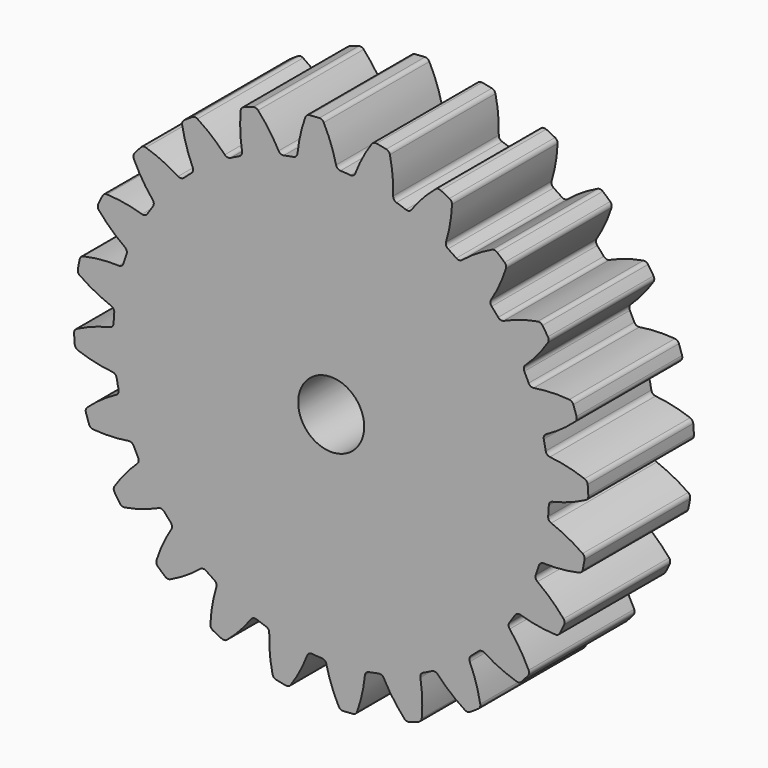
from build123d import *

# Parameters (mm, degrees)
F1_DEPTH = 4
F2_R     = 1
F3_DEPTH = 25


with BuildPart() as f1:
    # F0 (on Front) → F1 (new body)
    with BuildSketch(Plane.XZ):
        with BuildLine():
            ThreePointArc((0.147286, 6.705114), (-0.007827, 7.22133), (-0.226017, 7.714212))
            ThreePointArc((-0.226017, 7.714212), (-0.281912, 7.772593), (-0.360454, 7.791667))
            ThreePointArc((-0.360454, 7.791667), (-0.510144, 7.7833), (-0.659647, 7.772057))
            ThreePointArc((-0.659647, 7.772057), (-0.735027, 7.742895), (-0.782823, 7.677717))
            ThreePointArc((-0.782823, 7.677717), (-0.934813, 7.160572), (-1.021219, 6.628526))
            ThreePointArc((-1.021219, 6.628526), (-1.058952, 6.544762), (-1.139655, 6.50086))
            ThreePointArc((-1.139655, 6.50086), (-1.287596, 6.473183), (-1.434868, 6.442139))
            ThreePointArc((-1.434868, 6.442139), (-2.1215, 6.249739), (-2.783369, 5.984385))
            ThreePointArc((-2.783369, 5.984385), (-2.919105, 5.91936), (-3.053324, 5.851257))
            ThreePointArc((-3.053324, 5.851257), (-3.666764, 5.487699), (-4.2374, 5.060083))
            ThreePointArc((-4.2374, 5.060083), (-4.351682, 4.962143), (-4.463701, 4.861622))
            ThreePointArc((-4.463701, 4.861622), (-4.962143, 4.351682), (-5.40266, 3.790945))
            ThreePointArc((-5.40266, 3.790945), (-5.487699, 3.666764), (-5.569885, 3.540676))
            ThreePointArc((-5.569885, 3.540676), (-5.91936, 2.919105), (-6.199738, 2.26346))
            ThreePointArc((-6.199738, 2.26346), (-6.249739, 2.1215), (-6.29649, 1.978438))
            ThreePointArc((-6.29649, 1.978438), (-6.473183, 1.287596), (-6.574313, 0.581724))
            ThreePointArc((-6.574313, 0.581724), (-6.585869, 0.431661), (-6.594, 0.281373))
            ThreePointArc((-6.594, 0.281373), (-6.585869, -0.431661), (-6.50086, -1.139655))
            ThreePointArc((-6.50086, -1.139655), (-6.473183, -1.287596), (-6.442139, -1.434868))
            ThreePointArc((-6.442139, -1.434868), (-6.249739, -2.1215), (-5.984385, -2.783369))
            ThreePointArc((-5.984385, -2.783369), (-5.91936, -2.919105), (-5.851257, -3.053324))
            ThreePointArc((-5.851257, -3.053324), (-5.487699, -3.666764), (-5.060083, -4.2374))
            ThreePointArc((-5.060083, -4.2374), (-4.962143, -4.351682), (-4.861622, -4.463701))
            ThreePointArc((-4.861622, -4.463701), (-4.351682, -4.962143), (-3.790945, -5.40266))
            ThreePointArc((-3.790945, -5.40266), (-3.666764, -5.487699), (-3.540676, -5.569885))
            ThreePointArc((-3.540676, -5.569885), (-2.919105, -5.91936), (-2.26346, -6.199738))
            ThreePointArc((-2.26346, -6.199738), (-2.1215, -6.249739), (-1.978438, -6.29649))
            ThreePointArc((-1.978438, -6.29649), (-1.287596, -6.473183), (-0.581724, -6.574313))
            ThreePointArc((-0.581724, -6.574313), (-0.431661, -6.585869), (-0.281373, -6.594))
            ThreePointArc((-0.281373, -6.594), (0.431661, -6.585869), (1.139655, -6.50086))
            ThreePointArc((1.139655, -6.50086), (1.287596, -6.473183), (1.434868, -6.442139))
            ThreePointArc((1.434868, -6.442139), (2.1215, -6.249739), (2.783369, -5.984385))
            ThreePointArc((2.783369, -5.984385), (2.919105, -5.91936), (3.053324, -5.851257))
            ThreePointArc((3.053324, -5.851257), (3.666764, -5.487699), (4.2374, -5.060083))
            ThreePointArc((4.2374, -5.060083), (4.351682, -4.962143), (4.463701, -4.861622))
            ThreePointArc((4.463701, -4.861622), (4.962143, -4.351682), (5.40266, -3.790945))
            ThreePointArc((5.40266, -3.790945), (5.487699, -3.666764), (5.569885, -3.540676))
            ThreePointArc((5.569885, -3.540676), (5.91936, -2.919105), (6.199738, -2.26346))
            ThreePointArc((6.199738, -2.26346), (6.249739, -2.1215), (6.29649, -1.978438))
            ThreePointArc((6.29649, -1.978438), (6.473183, -1.287596), (6.574313, -0.581724))
            ThreePointArc((6.574313, -0.581724), (6.585869, -0.431661), (6.594, -0.281373))
            ThreePointArc((6.594, -0.281373), (6.585869, 0.431661), (6.50086, 1.139655))
            ThreePointArc((6.50086, 1.139655), (6.473183, 1.287596), (6.442139, 1.434868))
            ThreePointArc((6.442139, 1.434868), (6.249739, 2.1215), (5.984385, 2.783369))
            ThreePointArc((5.984385, 2.783369), (5.91936, 2.919105), (5.851257, 3.053324))
            ThreePointArc((5.851257, 3.053324), (5.487699, 3.666764), (5.060083, 4.2374))
            ThreePointArc((5.060083, 4.2374), (4.962143, 4.351682), (4.861622, 4.463701))
            ThreePointArc((4.861622, 4.463701), (4.351682, 4.962143), (3.790945, 5.40266))
            ThreePointArc((3.790945, 5.40266), (3.666764, 5.487699), (3.540676, 5.569885))
            ThreePointArc((3.540676, 5.569885), (2.919105, 5.91936), (2.26346, 6.199738))
            ThreePointArc((2.26346, 6.199738), (2.1215, 6.249739), (1.978438, 6.29649))
            ThreePointArc((1.978438, 6.29649), (1.287596, 6.473183), (0.581724, 6.574313))
            ThreePointArc((0.581724, 6.574313), (0.431661, 6.585869), (0.281373, 6.594))
            ThreePointArc((0.281373, 6.594), (0.19563, 6.626991), (0.147286, 6.705114))
        make_face()
        with BuildLine():
            ThreePointArc((0.729167, 6.666975), (0.67104, 6.595831), (0.581724, 6.574313))
            ThreePointArc((0.581724, 6.574313), (1.287596, 6.473183), (1.978438, 6.29649))
            ThreePointArc((1.978438, 6.29649), (1.904156, 6.350549), (1.877679, 6.438522))
            ThreePointArc((1.877679, 6.438522), (1.861457, 6.977295), (1.778269, 7.509854))
            ThreePointArc((1.778269, 7.509854), (1.739389, 7.580713), (1.66846, 7.619465))
            ThreePointArc((1.66846, 7.619465), (1.521705, 7.650125), (1.374387, 7.677959))
            ThreePointArc((1.374387, 7.677959), (1.294027, 7.669301), (1.23099, 7.618715))
            ThreePointArc((1.23099, 7.618715), (0.950333, 7.158529), (0.729167, 6.666975))
        make_face()
        with BuildLine():
            ThreePointArc((2.429861, 6.251082), (2.355301, 6.197406), (2.26346, 6.199738))
            ThreePointArc((2.26346, 6.199738), (2.919105, 5.91936), (3.540676, 5.569885))
            ThreePointArc((3.540676, 5.569885), (3.482916, 5.641328), (3.480111, 5.733156))
            ThreePointArc((3.480111, 5.733156), (3.603887, 6.257769), (3.661369, 6.793712))
            ThreePointArc((3.661369, 6.793712), (3.642154, 6.872219), (3.583671, 6.928008))
            ThreePointArc((3.583671, 6.928008), (3.449852, 6.995607), (3.314758, 7.060622))
            ThreePointArc((3.314758, 7.060622), (3.234895, 7.073057), (3.160914, 7.04051))
            ThreePointArc((3.160914, 7.04051), (2.770715, 6.668644), (2.429861, 6.251082))
        make_face()
        with BuildLine():
            ThreePointArc((-2.783369, 5.984385), (-2.1215, 6.249739), (-1.434868, 6.442139))
            ThreePointArc((-1.434868, 6.442139), (-1.526227, 6.451815), (-1.593143, 6.514763))
            ThreePointArc((-1.593143, 6.514763), (-1.876578, 6.973244), (-2.214901, 7.392859))
            ThreePointArc((-2.214901, 7.392859), (-2.284001, 7.434785), (-2.364803, 7.43288))
            ThreePointArc((-2.364803, 7.43288), (-2.507228, 7.386055), (-2.648726, 7.336501))
            ThreePointArc((-2.648726, 7.336501), (-2.71399, 7.288823), (-2.743288, 7.213496))
            ThreePointArc((-2.743288, 7.213496), (-2.756252, 6.674634), (-2.702011, 6.138353))
            ThreePointArc((-2.702011, 6.138353), (-2.716778, 6.047677), (-2.783369, 5.984385))
        make_face()
        with BuildLine():
            ThreePointArc((3.964965, 5.409187), (3.879053, 5.376638), (3.790945, 5.40266))
            ThreePointArc((3.790945, 5.40266), (4.351682, 4.962143), (4.861622, 4.463701))
            ThreePointArc((4.861622, 4.463701), (4.824322, 4.547659), (4.845379, 4.637084))
            ThreePointArc((4.845379, 4.637084), (5.100717, 5.111786), (5.294953, 5.61459))
            ThreePointArc((5.294953, 5.61459), (5.296712, 5.695395), (5.254661, 5.76442))
            ThreePointArc((5.254661, 5.76442), (5.142897, 5.86435), (5.029233, 5.962115))
            ThreePointArc((5.029233, 5.962115), (4.955311, 5.994796), (4.875426, 5.982505))
            ThreePointArc((4.875426, 5.982505), (4.402277, 5.724302), (3.964965, 5.409187))
        make_face()
        with BuildLine():
            ThreePointArc((-4.2374, 5.060083), (-3.666764, 5.487699), (-3.053324, 5.851257))
            ThreePointArc((-3.053324, 5.851257), (-3.144075, 5.836958), (-3.225003, 5.880442))
            ThreePointArc((-3.225003, 5.880442), (-3.617444, 6.249942), (-4.052843, 6.567695))
            ThreePointArc((-4.052843, 6.567695), (-4.13044, 6.590307), (-4.207996, 6.567555))
            ThreePointArc((-4.207996, 6.567555), (-4.333448, 6.485463), (-4.457299, 6.400975))
            ThreePointArc((-4.457299, 6.400975), (-4.507999, 6.33803), (-4.516803, 6.257687))
            ThreePointArc((-4.516803, 6.257687), (-4.389858, 5.733831), (-4.198665, 5.229862))
            ThreePointArc((-4.198665, 5.229862), (-4.18946, 5.138454), (-4.2374, 5.060083))
        make_face()
        with BuildLine():
            ThreePointArc((5.229862, 4.198665), (5.138454, 4.18946), (5.060083, 4.2374))
            ThreePointArc((5.060083, 4.2374), (5.487699, 3.666764), (5.851257, 3.053324))
            ThreePointArc((5.851257, 3.053324), (5.836958, 3.144075), (5.880442, 3.225003))
            ThreePointArc((5.880442, 3.225003), (6.249942, 3.617444), (6.567695, 4.052843))
            ThreePointArc((6.567695, 4.052843), (6.590307, 4.13044), (6.567555, 4.207996))
            ThreePointArc((6.567555, 4.207996), (6.485463, 4.333448), (6.400975, 4.457299))
            ThreePointArc((6.400975, 4.457299), (6.33803, 4.507999), (6.257687, 4.516803))
            ThreePointArc((6.257687, 4.516803), (5.733831, 4.389858), (5.229862, 4.198665))
        make_face()
        with BuildLine():
            ThreePointArc((-5.40266, 3.790945), (-4.962143, 4.351682), (-4.463701, 4.861622))
            ThreePointArc((-4.463701, 4.861622), (-4.547659, 4.824322), (-4.637084, 4.845379))
            ThreePointArc((-4.637084, 4.845379), (-5.111786, 5.100717), (-5.61459, 5.294953))
            ThreePointArc((-5.61459, 5.294953), (-5.695395, 5.296712), (-5.76442, 5.254661))
            ThreePointArc((-5.76442, 5.254661), (-5.86435, 5.142897), (-5.962115, 5.029233))
            ThreePointArc((-5.962115, 5.029233), (-5.994796, 4.955311), (-5.982505, 4.875426))
            ThreePointArc((-5.982505, 4.875426), (-5.724302, 4.402277), (-5.409187, 3.964965))
            ThreePointArc((-5.409187, 3.964965), (-5.376638, 3.879053), (-5.40266, 3.790945))
        make_face()
        with BuildLine():
            ThreePointArc((6.138353, 2.702011), (6.047677, 2.716778), (5.984385, 2.783369))
            ThreePointArc((5.984385, 2.783369), (6.249739, 2.1215), (6.442139, 1.434868))
            ThreePointArc((6.442139, 1.434868), (6.451815, 1.526227), (6.514763, 1.593143))
            ThreePointArc((6.514763, 1.593143), (6.973244, 1.876578), (7.392859, 2.214901))
            ThreePointArc((7.392859, 2.214901), (7.434785, 2.284001), (7.43288, 2.364803))
            ThreePointArc((7.43288, 2.364803), (7.386055, 2.507228), (7.336501, 2.648726))
            ThreePointArc((7.336501, 2.648726), (7.288823, 2.71399), (7.213496, 2.743288))
            ThreePointArc((7.213496, 2.743288), (6.674634, 2.756252), (6.138353, 2.702011))
        make_face()
        with BuildLine():
            ThreePointArc((-6.199738, 2.26346), (-5.91936, 2.919105), (-5.569885, 3.540676))
            ThreePointArc((-5.569885, 3.540676), (-5.641328, 3.482916), (-5.733156, 3.480111))
            ThreePointArc((-5.733156, 3.480111), (-6.257769, 3.603887), (-6.793712, 3.661369))
            ThreePointArc((-6.793712, 3.661369), (-6.872219, 3.642154), (-6.928008, 3.583671))
            ThreePointArc((-6.928008, 3.583671), (-6.995607, 3.449852), (-7.060622, 3.314758))
            ThreePointArc((-7.060622, 3.314758), (-7.073057, 3.234895), (-7.04051, 3.160914))
            ThreePointArc((-7.04051, 3.160914), (-6.668644, 2.770715), (-6.251082, 2.429861))
            ThreePointArc((-6.251082, 2.429861), (-6.197406, 2.355301), (-6.199738, 2.26346))
        make_face()
        with BuildLine():
            ThreePointArc((6.628526, 1.021219), (6.544762, 1.058952), (6.50086, 1.139655))
            ThreePointArc((6.50086, 1.139655), (6.585869, 0.431661), (6.594, -0.281373))
            ThreePointArc((6.594, -0.281373), (6.626991, -0.19563), (6.705114, -0.147286))
            ThreePointArc((6.705114, -0.147286), (7.22133, 0.007827), (7.714212, 0.226017))
            ThreePointArc((7.714212, 0.226017), (7.772593, 0.281912), (7.791667, 0.360454))
            ThreePointArc((7.791667, 0.360454), (7.7833, 0.510144), (7.772057, 0.659647))
            ThreePointArc((7.772057, 0.659647), (7.742895, 0.735027), (7.677717, 0.782823))
            ThreePointArc((7.677717, 0.782823), (7.160572, 0.934813), (6.628526, 1.021219))
        make_face()
        with BuildLine():
            ThreePointArc((-6.574313, 0.581724), (-6.473183, 1.287596), (-6.29649, 1.978438))
            ThreePointArc((-6.29649, 1.978438), (-6.350549, 1.904156), (-6.438522, 1.877679))
            ThreePointArc((-6.438522, 1.877679), (-6.977295, 1.861457), (-7.509854, 1.778269))
            ThreePointArc((-7.509854, 1.778269), (-7.580713, 1.739389), (-7.619465, 1.66846))
            ThreePointArc((-7.619465, 1.66846), (-7.650125, 1.521705), (-7.677959, 1.374387))
            ThreePointArc((-7.677959, 1.374387), (-7.669301, 1.294027), (-7.618715, 1.23099))
            ThreePointArc((-7.618715, 1.23099), (-7.158529, 0.950333), (-6.666975, 0.729167))
            ThreePointArc((-6.666975, 0.729167), (-6.595831, 0.67104), (-6.574313, 0.581724))
        make_face()
        with BuildLine():
            ThreePointArc((6.666975, -0.729167), (6.595831, -0.67104), (6.574313, -0.581724))
            ThreePointArc((6.574313, -0.581724), (6.473183, -1.287596), (6.29649, -1.978438))
            ThreePointArc((6.29649, -1.978438), (6.350549, -1.904156), (6.438522, -1.877679))
            ThreePointArc((6.438522, -1.877679), (6.977295, -1.861457), (7.509854, -1.778269))
            ThreePointArc((7.509854, -1.778269), (7.580713, -1.739389), (7.619465, -1.66846))
            ThreePointArc((7.619465, -1.66846), (7.650125, -1.521705), (7.677959, -1.374387))
            ThreePointArc((7.677959, -1.374387), (7.669301, -1.294027), (7.618715, -1.23099))
            ThreePointArc((7.618715, -1.23099), (7.158529, -0.950333), (6.666975, -0.729167))
        make_face()
        with BuildLine():
            ThreePointArc((-6.50086, -1.139655), (-6.585869, -0.431661), (-6.594, 0.281373))
            ThreePointArc((-6.594, 0.281373), (-6.626991, 0.19563), (-6.705114, 0.147286))
            ThreePointArc((-6.705114, 0.147286), (-7.22133, -0.007827), (-7.714212, -0.226017))
            ThreePointArc((-7.714212, -0.226017), (-7.772593, -0.281912), (-7.791667, -0.360454))
            ThreePointArc((-7.791667, -0.360454), (-7.7833, -0.510144), (-7.772057, -0.659647))
            ThreePointArc((-7.772057, -0.659647), (-7.742895, -0.735027), (-7.677717, -0.782823))
            ThreePointArc((-7.677717, -0.782823), (-7.160572, -0.934813), (-6.628526, -1.021219))
            ThreePointArc((-6.628526, -1.021219), (-6.544762, -1.058952), (-6.50086, -1.139655))
        make_face()
        with BuildLine():
            ThreePointArc((6.251082, -2.429861), (6.197406, -2.355301), (6.199738, -2.26346))
            ThreePointArc((6.199738, -2.26346), (5.91936, -2.919105), (5.569885, -3.540676))
            ThreePointArc((5.569885, -3.540676), (5.641328, -3.482916), (5.733156, -3.480111))
            ThreePointArc((5.733156, -3.480111), (6.257769, -3.603887), (6.793712, -3.661369))
            ThreePointArc((6.793712, -3.661369), (6.872219, -3.642154), (6.928008, -3.583671))
            ThreePointArc((6.928008, -3.583671), (6.995607, -3.449852), (7.060622, -3.314758))
            ThreePointArc((7.060622, -3.314758), (7.073057, -3.234895), (7.04051, -3.160914))
            ThreePointArc((7.04051, -3.160914), (6.668644, -2.770715), (6.251082, -2.429861))
        make_face()
        with BuildLine():
            ThreePointArc((-5.984385, -2.783369), (-6.249739, -2.1215), (-6.442139, -1.434868))
            ThreePointArc((-6.442139, -1.434868), (-6.451815, -1.526227), (-6.514763, -1.593143))
            ThreePointArc((-6.514763, -1.593143), (-6.973244, -1.876578), (-7.392859, -2.214901))
            ThreePointArc((-7.392859, -2.214901), (-7.434785, -2.284001), (-7.43288, -2.364803))
            ThreePointArc((-7.43288, -2.364803), (-7.386055, -2.507228), (-7.336501, -2.648726))
            ThreePointArc((-7.336501, -2.648726), (-7.288823, -2.71399), (-7.213496, -2.743288))
            ThreePointArc((-7.213496, -2.743288), (-6.674634, -2.756252), (-6.138353, -2.702011))
            ThreePointArc((-6.138353, -2.702011), (-6.047677, -2.716778), (-5.984385, -2.783369))
        make_face()
        with BuildLine():
            ThreePointArc((5.409187, -3.964965), (5.376638, -3.879053), (5.40266, -3.790945))
            ThreePointArc((5.40266, -3.790945), (4.962143, -4.351682), (4.463701, -4.861622))
            ThreePointArc((4.463701, -4.861622), (4.547659, -4.824322), (4.637084, -4.845379))
            ThreePointArc((4.637084, -4.845379), (5.111786, -5.100717), (5.61459, -5.294953))
            ThreePointArc((5.61459, -5.294953), (5.695395, -5.296712), (5.76442, -5.254661))
            ThreePointArc((5.76442, -5.254661), (5.86435, -5.142897), (5.962115, -5.029233))
            ThreePointArc((5.962115, -5.029233), (5.994796, -4.955311), (5.982505, -4.875426))
            ThreePointArc((5.982505, -4.875426), (5.724302, -4.402277), (5.409187, -3.964965))
        make_face()
        with BuildLine():
            ThreePointArc((-5.060083, -4.2374), (-5.487699, -3.666764), (-5.851257, -3.053324))
            ThreePointArc((-5.851257, -3.053324), (-5.836958, -3.144075), (-5.880442, -3.225003))
            ThreePointArc((-5.880442, -3.225003), (-6.249942, -3.617444), (-6.567695, -4.052843))
            ThreePointArc((-6.567695, -4.052843), (-6.590307, -4.13044), (-6.567555, -4.207996))
            ThreePointArc((-6.567555, -4.207996), (-6.485463, -4.333448), (-6.400975, -4.457299))
            ThreePointArc((-6.400975, -4.457299), (-6.33803, -4.507999), (-6.257687, -4.516803))
            ThreePointArc((-6.257687, -4.516803), (-5.733831, -4.389858), (-5.229862, -4.198665))
            ThreePointArc((-5.229862, -4.198665), (-5.138454, -4.18946), (-5.060083, -4.2374))
        make_face()
        with BuildLine():
            ThreePointArc((4.198665, -5.229862), (4.18946, -5.138454), (4.2374, -5.060083))
            ThreePointArc((4.2374, -5.060083), (3.666764, -5.487699), (3.053324, -5.851257))
            ThreePointArc((3.053324, -5.851257), (3.144075, -5.836958), (3.225003, -5.880442))
            ThreePointArc((3.225003, -5.880442), (3.617444, -6.249942), (4.052843, -6.567695))
            ThreePointArc((4.052843, -6.567695), (4.13044, -6.590307), (4.207996, -6.567555))
            ThreePointArc((4.207996, -6.567555), (4.333448, -6.485463), (4.457299, -6.400975))
            ThreePointArc((4.457299, -6.400975), (4.507999, -6.33803), (4.516803, -6.257687))
            ThreePointArc((4.516803, -6.257687), (4.389858, -5.733831), (4.198665, -5.229862))
        make_face()
        with BuildLine():
            ThreePointArc((-3.790945, -5.40266), (-4.351682, -4.962143), (-4.861622, -4.463701))
            ThreePointArc((-4.861622, -4.463701), (-4.824322, -4.547659), (-4.845379, -4.637084))
            ThreePointArc((-4.845379, -4.637084), (-5.100717, -5.111786), (-5.294953, -5.61459))
            ThreePointArc((-5.294953, -5.61459), (-5.296712, -5.695395), (-5.254661, -5.76442))
            ThreePointArc((-5.254661, -5.76442), (-5.142897, -5.86435), (-5.029233, -5.962115))
            ThreePointArc((-5.029233, -5.962115), (-4.955311, -5.994796), (-4.875426, -5.982505))
            ThreePointArc((-4.875426, -5.982505), (-4.402277, -5.724302), (-3.964965, -5.409187))
            ThreePointArc((-3.964965, -5.409187), (-3.879053, -5.376638), (-3.790945, -5.40266))
        make_face()
        with BuildLine():
            ThreePointArc((2.702011, -6.138353), (2.716778, -6.047677), (2.783369, -5.984385))
            ThreePointArc((2.783369, -5.984385), (2.1215, -6.249739), (1.434868, -6.442139))
            ThreePointArc((1.434868, -6.442139), (1.526227, -6.451815), (1.593143, -6.514763))
            ThreePointArc((1.593143, -6.514763), (1.876578, -6.973244), (2.214901, -7.392859))
            ThreePointArc((2.214901, -7.392859), (2.284001, -7.434785), (2.364803, -7.43288))
            ThreePointArc((2.364803, -7.43288), (2.507228, -7.386055), (2.648726, -7.336501))
            ThreePointArc((2.648726, -7.336501), (2.71399, -7.288823), (2.743288, -7.213496))
            ThreePointArc((2.743288, -7.213496), (2.756252, -6.674634), (2.702011, -6.138353))
        make_face()
        with BuildLine():
            ThreePointArc((-2.26346, -6.199738), (-2.919105, -5.91936), (-3.540676, -5.569885))
            ThreePointArc((-3.540676, -5.569885), (-3.482916, -5.641328), (-3.480111, -5.733156))
            ThreePointArc((-3.480111, -5.733156), (-3.603887, -6.257769), (-3.661369, -6.793712))
            ThreePointArc((-3.661369, -6.793712), (-3.642154, -6.872219), (-3.583671, -6.928008))
            ThreePointArc((-3.583671, -6.928008), (-3.449852, -6.995607), (-3.314758, -7.060622))
            ThreePointArc((-3.314758, -7.060622), (-3.234895, -7.073057), (-3.160914, -7.04051))
            ThreePointArc((-3.160914, -7.04051), (-2.770715, -6.668644), (-2.429861, -6.251082))
            ThreePointArc((-2.429861, -6.251082), (-2.355301, -6.197406), (-2.26346, -6.199738))
        make_face()
        with BuildLine():
            ThreePointArc((1.021219, -6.628526), (1.058952, -6.544762), (1.139655, -6.50086))
            ThreePointArc((1.139655, -6.50086), (0.431661, -6.585869), (-0.281373, -6.594))
            ThreePointArc((-0.281373, -6.594), (-0.19563, -6.626991), (-0.147286, -6.705114))
            ThreePointArc((-0.147286, -6.705114), (0.007827, -7.22133), (0.226017, -7.714212))
            ThreePointArc((0.226017, -7.714212), (0.281912, -7.772593), (0.360454, -7.791667))
            ThreePointArc((0.360454, -7.791667), (0.510144, -7.7833), (0.659647, -7.772057))
            ThreePointArc((0.659647, -7.772057), (0.735027, -7.742895), (0.782823, -7.677717))
            ThreePointArc((0.782823, -7.677717), (0.934813, -7.160572), (1.021219, -6.628526))
        make_face()
        with BuildLine():
            ThreePointArc((-0.581724, -6.574313), (-1.287596, -6.473183), (-1.978438, -6.29649))
            ThreePointArc((-1.978438, -6.29649), (-1.904156, -6.350549), (-1.877679, -6.438522))
            ThreePointArc((-1.877679, -6.438522), (-1.861457, -6.977295), (-1.778269, -7.509854))
            ThreePointArc((-1.778269, -7.509854), (-1.739389, -7.580713), (-1.66846, -7.619465))
            ThreePointArc((-1.66846, -7.619465), (-1.521705, -7.650125), (-1.374387, -7.677959))
            ThreePointArc((-1.374387, -7.677959), (-1.294027, -7.669301), (-1.23099, -7.618715))
            ThreePointArc((-1.23099, -7.618715), (-0.950333, -7.158529), (-0.729167, -6.666975))
            ThreePointArc((-0.729167, -6.666975), (-0.67104, -6.595831), (-0.581724, -6.574313))
        make_face()
    extrude(amount=F1_DEPTH)

    # F2 (on face) → F3 (cut)
    with BuildSketch(Plane.XZ.offset(4)):
        Circle(F2_R)
    extrude(amount=-F3_DEPTH, mode=Mode.SUBTRACT)


solid = f1.part
